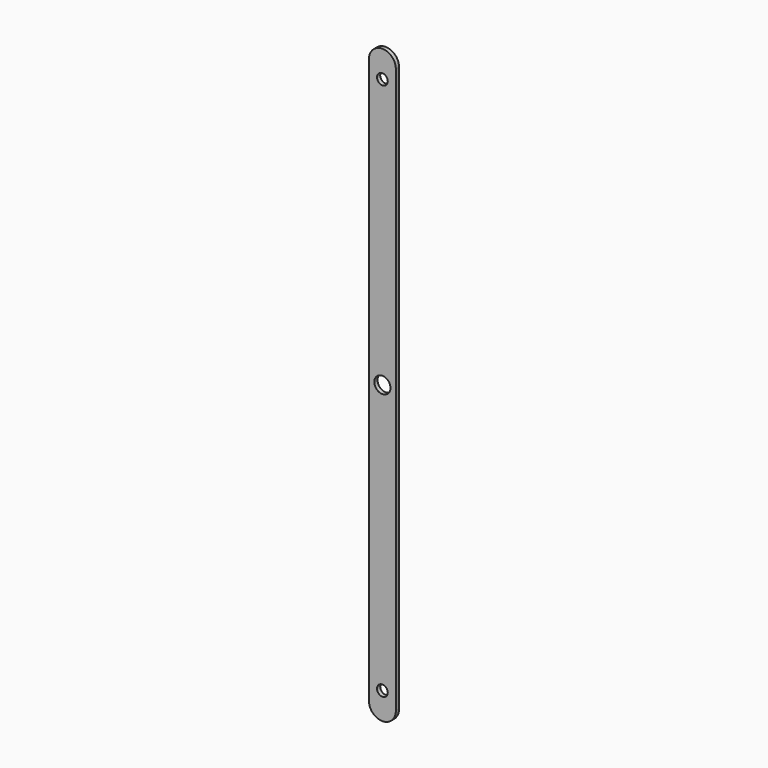
from build123d import *

# Parameters (mm, degrees)
F0_R     = 4
F0_R_2   = 6
F1_DEPTH = 1.5


with BuildPart() as f1:
    # F0 (on Front) → F1 (new body, symmetric)
    with BuildSketch(Plane.XZ):
        with BuildLine():
            ThreePointArc((10, 210), (0, 220), (-10, 210))
            Line((-10, 210), (-10, -210))
            ThreePointArc((-10, -210), (0, -220), (10, -210))
            Line((10, -210), (10, 210))
        make_face()
        with Locations((0, -200)):
            Circle(F0_R, mode=Mode.SUBTRACT)
        Circle(F0_R_2, mode=Mode.SUBTRACT)
        with Locations((0, 200)):
            Circle(F0_R, mode=Mode.SUBTRACT)
    extrude(amount=F1_DEPTH, both=True)


solid = f1.part
